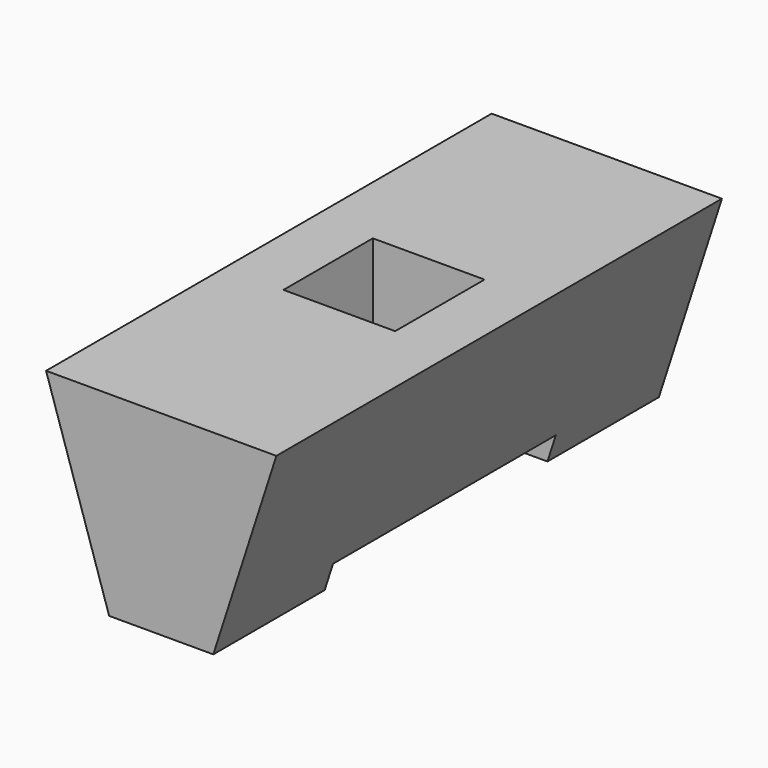
from build123d import *

# Parameters (mm, degrees)
F1_W      = 36.2
F1_H      = 68.8
F2_W      = 12.866667
F2_H      = 68.8
F3_FACE_W = 36.2
F3_FACE_H = 68.8
F4_DEPTH  = 12
F5_W      = 13.8
F5_H      = 13.8
F6_DEPTH  = 31
F7_W      = 20
F7_H      = 34.4
F8_DEPTH  = 3.2


with BuildPart() as f3:
    # F1 (on offset) → F3 section 0
    with BuildSketch(Plane.XY.offset(36.125)):
        with Locations((0, -34.4)):
            Rectangle(F1_W, F1_H)
    # F2 (on Top) → F3 section 1
    with BuildSketch(Plane.XY):
        with Locations((-3.3e-05, -34.4)):
            Rectangle(F2_W, F2_H)
    loft()

    # F3_face (on face) → F4 (cut)
    with BuildSketch(Plane(origin=(0, -34.4, 36.125), x_dir=(1, 0, 0), z_dir=(0, 0, 1))):
        Rectangle(F3_FACE_W, F3_FACE_H)
    extrude(amount=-F4_DEPTH, mode=Mode.SUBTRACT)

    # F5 (on offset) → F6 (cut)
    with BuildSketch(Plane.XY.offset(36.125)):
        with Locations((0, -34.4)):
            Rectangle(F5_W, F5_H)
    extrude(amount=-F6_DEPTH, mode=Mode.SUBTRACT)

    # F7 (on Top) → F8 (cut)
    with BuildSketch(Plane.XY):
        with Locations((0, -34.4)):
            Rectangle(F7_W, F7_H)
    extrude(amount=F8_DEPTH, mode=Mode.SUBTRACT)


solid = f3.part
